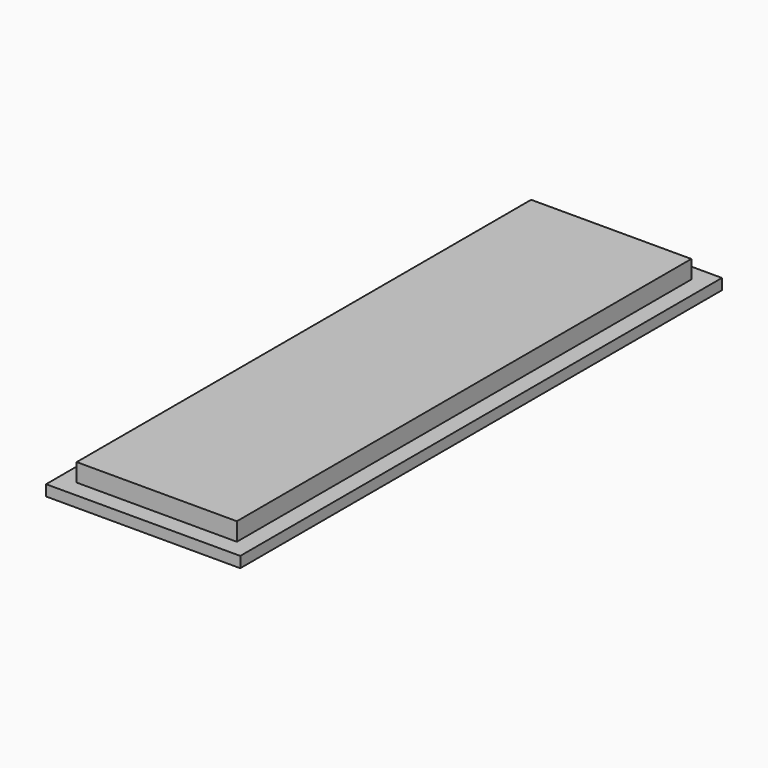
from build123d import *

# Parameters (mm, degrees)
F0_W     = 53.67
F0_H     = 166.4
F0_W_2   = 44.27
F0_H_2   = 157
F1_DEPTH = 3
F2_DEPTH = 8


with BuildPart() as f1:
    # F0 (on Top) → F1 (new body)
    with BuildSketch(Plane.XY):
        Rectangle(F0_W, F0_H)
        Rectangle(F0_W_2, F0_H_2, mode=Mode.SUBTRACT)
        Rectangle(F0_W_2, F0_H_2)
    extrude(amount=F1_DEPTH)

    # F0 (on Top) → F2 (join)
    with BuildSketch(Plane.XY):
        Rectangle(F0_W_2, F0_H_2)
    extrude(amount=F2_DEPTH)


solid = f1.part
